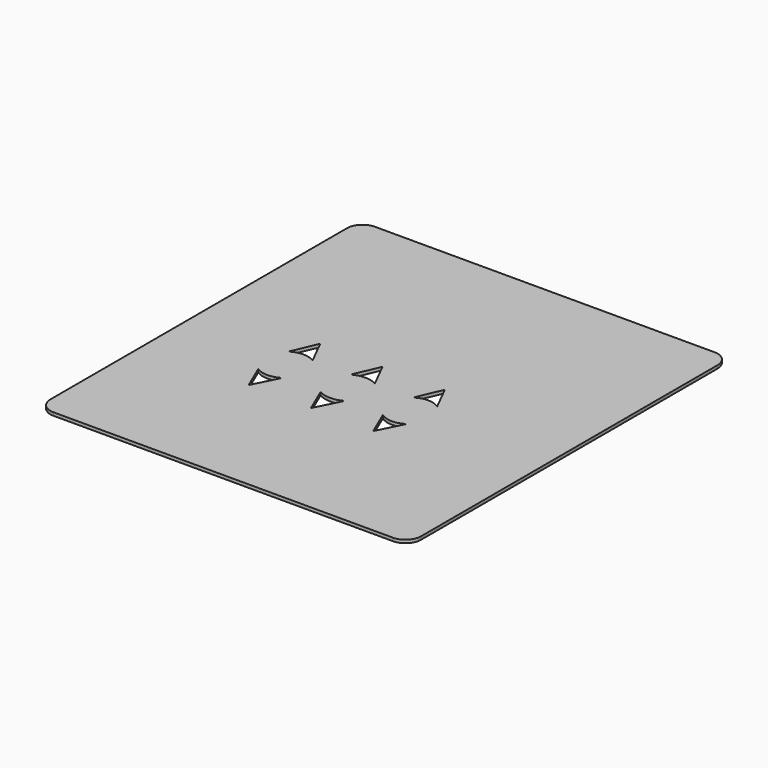
from build123d import *

# Parameters (mm, degrees)
F1_DEPTH = 1


with BuildPart() as f1:
    # F0 (on Top) → F1 (new body)
    with BuildSketch(Plane.XY):
        with BuildLine():
            Line((-55, -65), (54, -65))
            ThreePointArc((54, -65), (57.535534, -63.535534), (59, -60))
            Line((59, -60), (59, 59))
            ThreePointArc((59, 59), (57.535534, 62.535534), (54, 64))
            Line((54, 64), (-55, 64))
            ThreePointArc((-55, 64), (-58.535534, 62.535534), (-60, 59))
            Line((-60, 59), (-60, -60))
            ThreePointArc((-60, -60), (-58.535534, -63.535534), (-55, -65))
        make_face()
        with BuildLine():
            Line((-21.878817, -14.612223), (-26.042232, -22.88001))
            Line((-26.042232, -22.88001), (-29.598031, -14.612223))
            ThreePointArc((-29.598031, -14.612223), (-25.738424, -15.718884), (-21.878817, -14.612223))
        make_face(mode=Mode.SUBTRACT)
        with BuildLine():
            Line((-6.042232, -22.88001), (-9.598031, -14.612223))
            ThreePointArc((-9.598031, -14.612223), (-5.738424, -15.572998), (-1.878817, -14.612223))
            Line((-1.878817, -14.612223), (-6.042232, -22.88001))
        make_face(mode=Mode.SUBTRACT)
        with BuildLine():
            Line((13.957768, -22.88001), (10.401969, -14.612223))
            ThreePointArc((10.401969, -14.612223), (14.261576, -15.80269), (18.121183, -14.612223))
            Line((18.121183, -14.612223), (13.957768, -22.88001))
        make_face(mode=Mode.SUBTRACT)
        with BuildLine():
            Line((-29.598031, -2.43611), (-26.042232, 5.831677))
            Line((-26.042232, 5.831677), (-21.878817, -2.43611))
            ThreePointArc((-21.878817, -2.43611), (-25.738424, -1.329449), (-29.598031, -2.43611))
        make_face(mode=Mode.SUBTRACT)
        with BuildLine():
            ThreePointArc((-1.878817, -2.43611), (-5.738424, -1.475334), (-9.598031, -2.43611))
            Line((-9.598031, -2.43611), (-6.042232, 5.831677))
            Line((-6.042232, 5.831677), (-1.878817, -2.43611))
        make_face(mode=Mode.SUBTRACT)
        with BuildLine():
            ThreePointArc((18.121183, -2.43611), (14.261576, -1.245643), (10.401969, -2.43611))
            Line((10.401969, -2.43611), (13.957768, 5.831677))
            Line((13.957768, 5.831677), (18.121183, -2.43611))
        make_face(mode=Mode.SUBTRACT)
    extrude(amount=F1_DEPTH)


solid = f1.part
